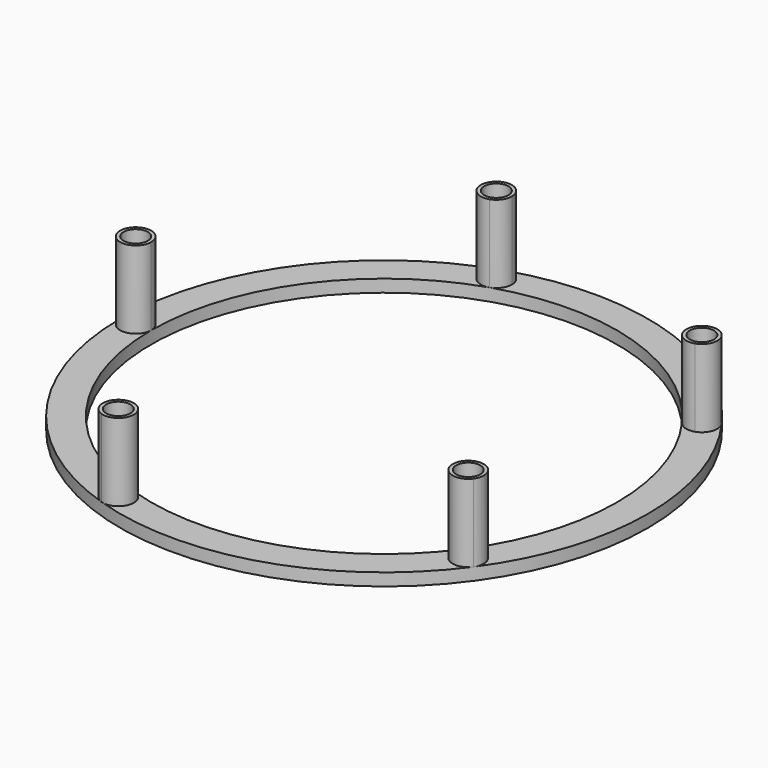
from build123d import *

# Parameters (mm, degrees)
F9_DEPTH  = 25
F11_D     = 7.8
F11_DEPTH = 15
F11_TIP   = 2.3433564142
F12_COUNT = 5


with BuildPart() as f5:
    # F4 (on Front) → F5 (revolve)
    with BuildSketch(Plane.XZ):
        Polygon((75, -2), (78, -2), (78.5, 0), (80, 0), (81.5, 0), (82, -2), (85, -2), (85, 2), (80, 2), (75, 2), align=None)
    revolve(axis=Axis((0, 0, 0), (0, 0, 1)))

    # F8 (on face) → F9 (join)
    with BuildSketch(Plane.XY.offset(2)):
        with BuildLine():
            ThreePointArc((-26.2664438955, 80.8398040886), (-29.4766422296, 74.5394366339), (-23.176274556, 71.3292387293))
            ThreePointArc((-23.176274556, 71.3292387293), (-20.6762745713, 73.1455950516), (-19.72135955, 76.0845213036))
            ThreePointArc((-19.72135955, 76.0845213036), (-21.7824330221, 80.1296060819), (-26.2664438955, 80.8398040886))
        make_face()
    extrude(amount=F9_DEPTH)

    # F11
    with Locations(Plane.XY.offset(27)):
        with Locations((-24.72135955, 76.0845213036)):
            Hole(F11_D / 2, depth=F11_DEPTH)
            with Locations((0, 0, -(F11_DEPTH + F11_TIP / 2))):  # 118° drill point
                Cone(0, F11_D / 2, F11_TIP, mode=Mode.SUBTRACT)

    # F12: F5 ×5 about axis
    f12_axis = Axis((0, 0, 32.8164733946), (0, 0, 1))


with BuildPart() as f5_1:
    add(f5.part)
    for i in range(1, F12_COUNT):
        add(f5.part.rotate(f12_axis, i * 360 / F12_COUNT))


solid = f5_1.part
